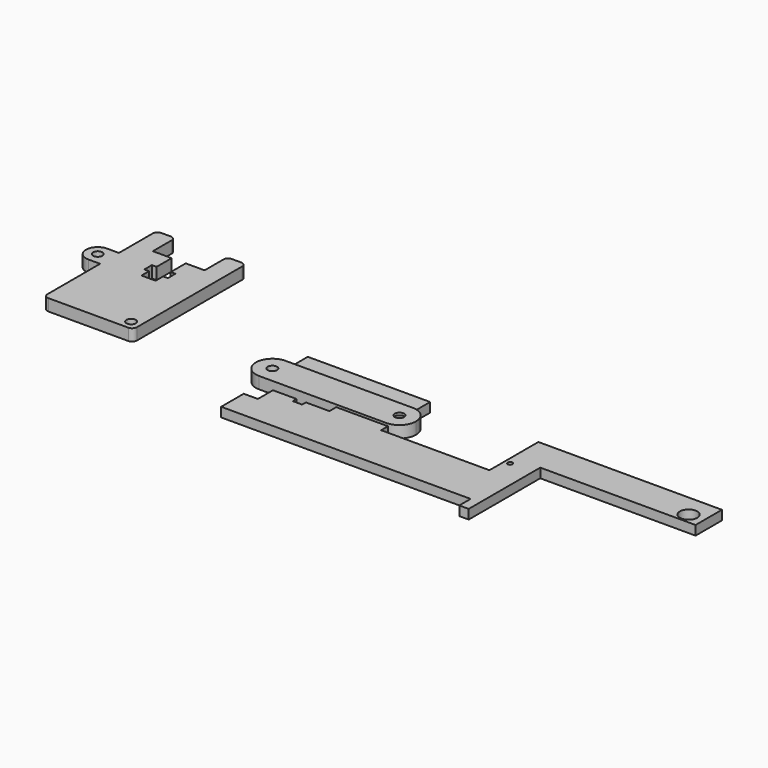
from build123d import *

# Parameters (mm, degrees)
F0_R     = 1
F1_DEPTH = 2.5
F2_DEPTH = 2.5
F3_R     = 1
F4_DEPTH = 2.5
F5_R     = 0.5
F5_R_2   = 1.850845
F6_DEPTH = 2


with BuildPart() as f1:
    # F0 (on Top) → F1 (new body)
    with BuildSketch(Plane.XY):
        with BuildLine():
            Line((-72.445053, 0), (-63.445053, 0))
            Line((-63.445053, 0), (-55.445053, 0))
            ThreePointArc((-55.445053, 0), (-54.737946, 0.292893), (-54.445053, 1))
            Line((-54.445053, 1), (-54.445053, 29))
            ThreePointArc((-54.445053, 29), (-54.737946, 29.707107), (-55.445053, 30))
            Line((-55.445053, 30), (-57.445053, 30))
            ThreePointArc((-57.445053, 30), (-58.152159, 29.707107), (-58.445053, 29))
            Line((-58.445053, 29), (-58.445053, 24))
            Line((-58.445053, 24), (-62.445053, 24))
            Line((-62.445053, 24), (-62.445053, 20))
            Line((-62.445053, 20), (-61.445053, 20))
            Line((-61.445053, 20), (-61.445053, 18))
            Line((-61.445053, 18), (-62.445053, 18))
            Line((-62.445053, 18), (-62.445053, 16))
            Line((-62.445053, 16), (-63.945053, 16))
            Line((-63.945053, 16), (-65.445053, 16))
            Line((-65.445053, 16), (-65.445053, 18))
            Line((-65.445053, 18), (-66.445053, 18))
            Line((-66.445053, 18), (-66.445053, 20))
            Line((-66.445053, 20), (-65.445053, 20))
            Line((-65.445053, 20), (-65.445053, 24))
            Line((-65.445053, 24), (-69.445053, 24))
            Line((-69.445053, 24), (-69.445053, 29))
            ThreePointArc((-69.445053, 29), (-69.737946, 29.707107), (-70.445053, 30))
            Line((-70.445053, 30), (-72.445053, 30))
            ThreePointArc((-72.445053, 30), (-73.152159, 29.707107), (-73.445053, 29))
            Line((-73.445053, 29), (-73.445053, 20))
            Line((-73.445053, 20), (-73.445053, 15))
            Line((-73.445053, 15), (-73.445053, 1))
            ThreePointArc((-73.445053, 1), (-73.152159, 0.292893), (-72.445053, 0))
        make_face()
        with Locations((-56.445053, 2)):
            Circle(F0_R, mode=Mode.SUBTRACT)
    extrude(amount=F1_DEPTH)

    # F0 (on Top) → F2 (join)
    with BuildSketch(Plane.XY):
        with BuildLine():
            Line((-75.945053, 15), (-73.445053, 15))
            Line((-73.445053, 15), (-73.445053, 20))
            Line((-73.445053, 20), (-75.945053, 20))
            ThreePointArc((-75.945053, 20), (-77.71282, 19.267767), (-78.445053, 17.5))
            ThreePointArc((-78.445053, 17.5), (-77.71282, 15.732233), (-75.945053, 15))
        make_face()
        with Locations((-75.945053, 17.5)):
            Circle(F0_R, mode=Mode.SUBTRACT)
    extrude(amount=F2_DEPTH)


with BuildPart() as f4:
    # F3 (on Top) → F4 (new body)
    with BuildSketch(Plane.XY):
        with BuildLine():
            ThreePointArc((-31.137628, 3.5), (-30.112502, 1.025126), (-27.637628, 0))
            Line((-27.637628, 0), (-0.637628, 0))
            ThreePointArc((-0.637628, 0), (1.837245, 1.025126), (2.862372, 3.5))
            ThreePointArc((2.862372, 3.5), (1.837245, 5.974874), (-0.637628, 7))
            Line((-0.637628, 7), (-27.637628, 7))
            ThreePointArc((-27.637628, 7), (-30.112502, 5.974874), (-31.137628, 3.5))
        make_face()
        with Locations((-27.637628, 3.5)):
            Circle(F3_R, mode=Mode.SUBTRACT)
        with Locations((-0.637628, 3.5)):
            Circle(F3_R, mode=Mode.SUBTRACT)
    extrude(amount=F4_DEPTH)


with BuildPart() as f6:
    # F5 (on Top) → F6 (new body)
    with BuildSketch(Plane.XY):
        Polygon((-0.270881, 11.183477), (-26.270881, 11.183477), (-26.228021, 4.183477), (-23.293118, 4.183477), (-23.293118, 1.183477), (-18.270881, 1.183477), (-18.270881, 2.183477), (-16.270881, 2.183477), (-16.270881, 1.183477), (-11.270881, 1.183477), (-11.270881, -1.816523), (-16.270881, -1.816523), (-16.270881, -2.816523), (-18.270881, -2.816523), (-18.270881, -1.816523), (-23.270881, -1.816523), (-23.270881, -5.816523), (-26.270881, -5.816523), (-26.270881, -11.816523), (26.729119, -11.816523), (26.729119, -14.816523), (28.729119, -14.816523), (28.729119, 4.183477), (61.729119, 4.183477), (61.729119, 11.183477), (22.729119, 11.183477), (22.729119, -1.816523), (-0.270881, -1.816523), align=None)
        with Locations((-2.779179, 2.242288)):
            Circle(F5_R, mode=Mode.SUBTRACT)
        with Locations((23.873684, 2.242288)):
            Circle(F5_R, mode=Mode.SUBTRACT)
        with Locations((58.491771, 6.378076)):
            Circle(F5_R_2, mode=Mode.SUBTRACT)
    extrude(amount=F6_DEPTH)


solid = Compound([f1.part, f4.part, f6.part])
